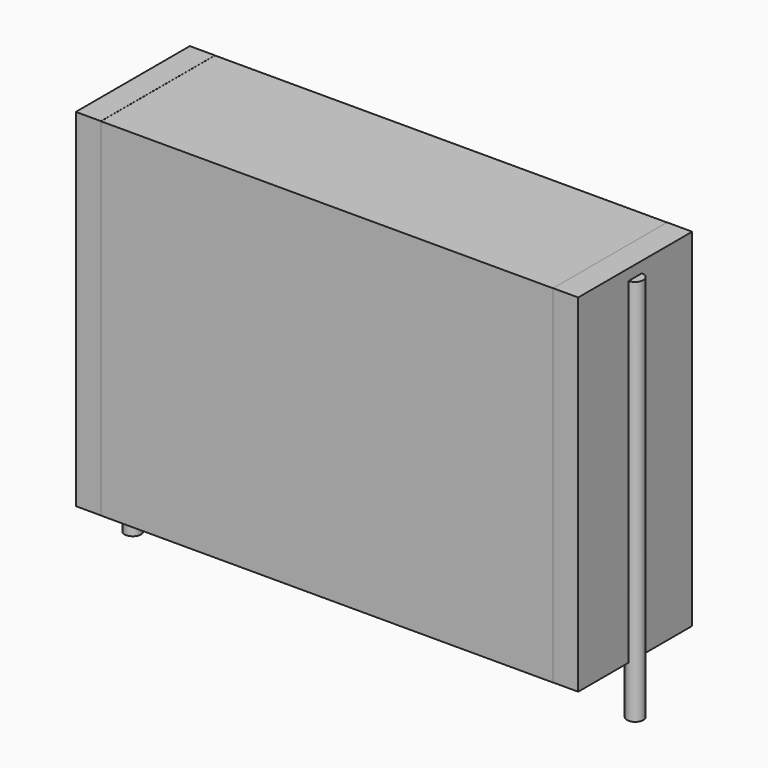
from build123d import *

# Parameters (mm, degrees)
SKETCH_W          = 24.75
SKETCH_H          = 7.8
PAD_DEPTH         = 19
SKETCH001_R       = 0.45
PAD001_DEPTH      = 18
PAD001_DEPTH_BACK = 3.2
SKETCH002_W       = 1.375
SKETCH002_H       = 7.8
PAD002_DEPTH      = 19


with BuildPart() as pad:
    # Sketch → Pad (new body)
    with BuildSketch(Plane.XY.offset(0.1)):
        with Locations((13.75, 0)):
            Rectangle(SKETCH_W, SKETCH_H)
    extrude(amount=PAD_DEPTH)


with BuildPart() as pad001:
    # Sketch001 → Pad001 (new body, two sides)
    with BuildSketch(Plane.XY.offset(0.5)) as pad001_sk:
        Circle(SKETCH001_R)
        with Locations((27.5, 0)):
            Circle(SKETCH001_R)
    extrude(amount=PAD001_DEPTH)
    extrude(pad001_sk.sketch, amount=-PAD001_DEPTH_BACK)


with BuildPart() as pad002:
    # Sketch002 → Pad002 (new body)
    with BuildSketch(Plane.XY.offset(0.105)):
        with Locations((0.6875, 0)):
            Rectangle(SKETCH002_W, SKETCH002_H)
        with Locations((26.8125, 0)):
            Rectangle(SKETCH002_W, SKETCH002_H)
    extrude(amount=PAD002_DEPTH)


solid = Compound([pad.part, pad001.part, pad002.part])
